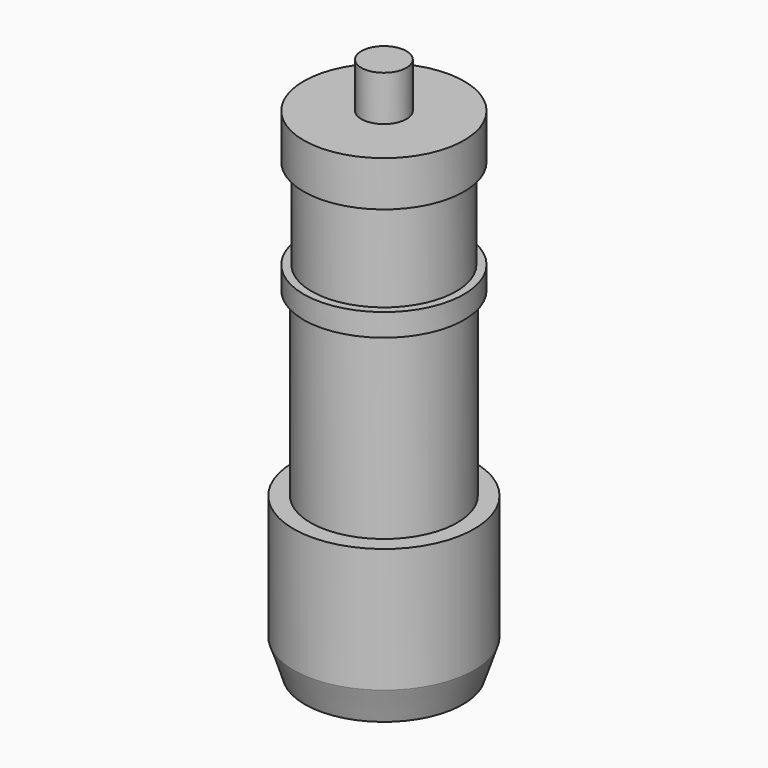
from build123d import *

# Parameters (mm, degrees)
CYLINDER189_R             = 3.2
CYLINDER189_DEPTH         = 22
CYLINDER190_R             = 3.55
CYLINDER190_DEPTH         = 2
CYLINDER191_R             = 3.55
CYLINDER191_DEPTH         = 1
CYLINDER192_R             = 3.25
CYLINDER192_DEPTH         = 8
CYLINDER193_R             = 4
CYLINDER193_DEPTH         = 5.5
CYLINDER194_R             = 1
CYLINDER194_DEPTH         = 2
FUSION127_PLACEMENT_ANGLE = 180


with BuildPart() as cylinder189:
    # Cylinder189 → Cylinder189 (new body)
    with BuildSketch(Plane.XY.offset(5)):
        Circle(CYLINDER189_R)
    extrude(amount=CYLINDER189_DEPTH)


with BuildPart() as cylinder190:
    # Cylinder190 → Cylinder190 (new body)
    with BuildSketch(Plane.XY.offset(5)):
        Circle(CYLINDER190_R)
    extrude(amount=CYLINDER190_DEPTH)


with BuildPart() as cylinder191:
    # Cylinder191 → Cylinder191 (new body)
    with BuildSketch(Plane.XY.offset(11)):
        Circle(CYLINDER191_R)
    extrude(amount=CYLINDER191_DEPTH)


with BuildPart() as cylinder192:
    # Cylinder192 → Cylinder192 (new body)
    with BuildSketch(Plane.XY.offset(12)):
        Circle(CYLINDER192_R)
    extrude(amount=CYLINDER192_DEPTH)


with BuildPart() as cylinder193:
    # Cylinder193 → Cylinder193 (new body)
    with BuildSketch(Plane.XY.offset(20)):
        Circle(CYLINDER193_R)
    extrude(amount=CYLINDER193_DEPTH)


with BuildPart() as fusion126:
    # Cone001 → Cone001 (revolve)
    with BuildSketch(Plane(origin=(0, 0, 25.5), x_dir=(1, 0, 0), z_dir=(0, -1, 0))):
        Polygon((0, 0), (4, 0), (3.5, 1.5), (0, 1.5), align=None)
    revolve(axis=Axis((0, 0, 25.5), (0, 0, 1)))

    # Fusion126: union Cylinder189, Cylinder190, Cylinder191, Cylinder192, Cylinder193
    add(cylinder189.part)
    add(cylinder190.part)
    add(cylinder191.part)
    add(cylinder192.part)
    add(cylinder193.part)


with BuildPart() as mic001:
    # Cylinder194 → Cylinder194 (new body)
    with BuildSketch(Plane.XY.offset(3)):
        Circle(CYLINDER194_R)
    extrude(amount=CYLINDER194_DEPTH)

    # Fusion127: union Fusion126
    add(fusion126.part)


with BuildPart() as mic001_1:
    # Fusion127 placement: moved
    add(mic001.part.moved(Location((0, -260, -121.25))).rotate(Axis((0, -260, -121.25), (0, 1, 0)), FUSION127_PLACEMENT_ANGLE))


solid = mic001_1.part
